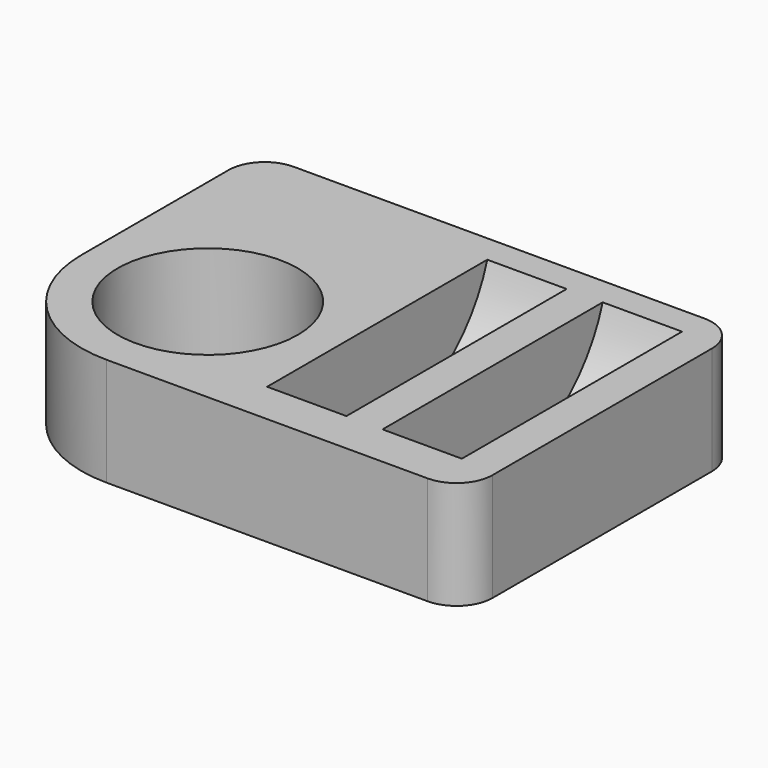
from build123d import *

# Parameters (mm, degrees)
F0_R     = 12.5
F1_DEPTH = 21
F2_W     = 11
F2_H     = 20
F4_W     = 67.492016
F4_H     = 6.775262
F5_DEPTH = 48.001


with BuildPart() as f1:
    # F0 (on Top) → F1 (new body)
    with BuildSketch(Plane.XY):
        with BuildLine():
            ThreePointArc((0, 17.5), (5.125631, 5.125631), (17.5, 0))
            Line((17.5, 0), (62, 0))
            ThreePointArc((62, 0), (65.535534, 1.464466), (67, 5))
            Line((67, 5), (67, 43))
            ThreePointArc((67, 43), (65.535534, 46.535534), (62, 48))
            Line((62, 48), (5, 48))
            ThreePointArc((5, 48), (1.464466, 46.535534), (0, 43))
            Line((0, 43), (0, 17.5))
        make_face()
        with Locations((17.5, 17.5)):
            Circle(F0_R, mode=Mode.SUBTRACT)
    extrude(amount=F1_DEPTH)

    # F2 (on face) → F3 (revolve, cut)
    with BuildSketch(Plane.XY.offset(21)):
        with Locations((40.5, 15)):
            Rectangle(F2_W, F2_H)
        with Locations((56.5, 15)):
            Rectangle(F2_W, F2_H)
    revolve(axis=Axis((40.5, 25, 21), (1, 0, 0)), mode=Mode.SUBTRACT)

    # F4 (on face) → F5 (cut, through all)
    with BuildSketch(Plane.XZ):
        with Locations((33.746008, 18.387631)):
            Rectangle(F4_W, F4_H)
    extrude(amount=-F5_DEPTH, mode=Mode.SUBTRACT)


solid = f1.part
